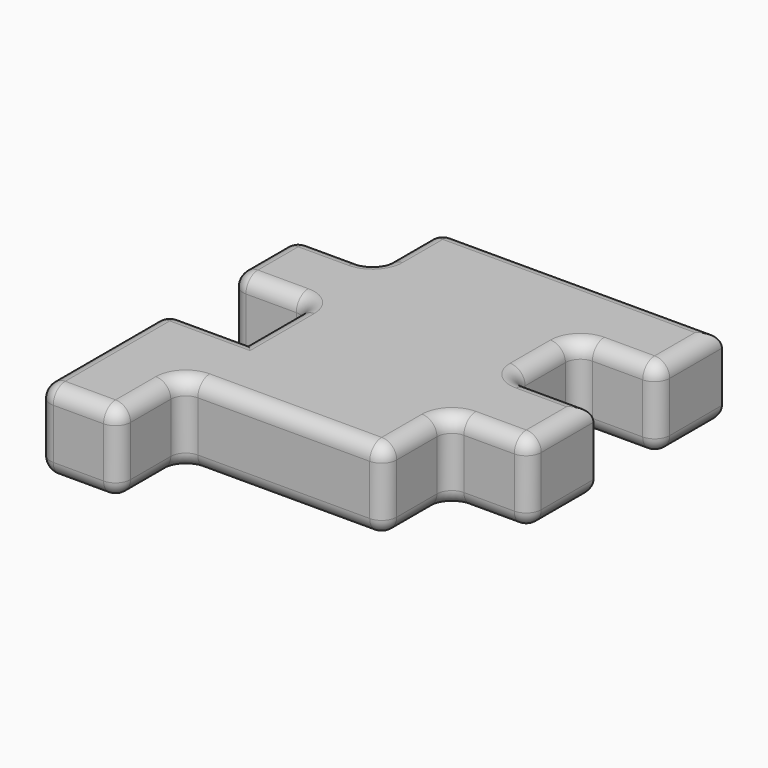
from build123d import *

# Parameters (mm, degrees)
F1_DEPTH = 26.8
F2_R     = 5


with BuildPart() as f1:
    # F0 (on Top) → F1 (new body)
    with BuildSketch(Plane.XY):
        Polygon((56.4772747457, 92.9015133679), (-37.7227252543, 92.9015133679), (-37.7227252543, 66.1015133679), (-64.5227252543, 66.1015133679), (-64.5227252543, 39.3015133679), (-37.7227252543, 39.3015133679), (-37.7227252543, 12.5015133679), (-64.5227252543, 12.5015133679), (-64.5227252543, -41.0984866321), (-37.7227252543, -41.0984866321), (-37.7227252543, -14.2984866321), (29.6772747457, -14.2984866321), (29.6772747457, 12.5015133679), (56.4772747457, 12.5015133679), (56.4772747457, 39.3015133679), (29.6772747457, 39.3015133679), (29.6772747457, 66.1015133679), (56.4772747457, 66.1015133679), align=None)
    extrude(amount=F1_DEPTH)

    # F2
    f2_edges = [f1.edges().sort_by_distance(p)[0] for p in [
        (29.677275, 52.701513, 26.8),
        (43.077275, 66.101513, 26.8),
        (56.477275, 79.501513, 26.8),
        (9.377275, 92.901513, 26.8),
        (-37.722725, 79.501513, 26.8),
        (-51.122725, 66.101513, 26.8),
        (-64.522725, 52.701513, 26.8),
        (-51.122725, 39.301513, 26.8),
        (-37.722725, 25.901513, 26.8),
        (-51.122725, 12.501513, 26.8),
        (-64.522725, -14.298487, 26.8),
        (-51.122725, -41.098487, 26.8),
        (-37.722725, -27.698487, 26.8),
        (-4.022725, -14.298487, 26.8),
        (29.677275, -0.898487, 26.8),
        (43.077275, 12.501513, 26.8),
        (56.477275, 25.901513, 26.8),
        (43.077275, 39.301513, 26.8),
        (-37.722725, -14.298487, 13.4),
        (29.677275, -14.298487, 13.4),
        (-4.022725, -14.298487, 0),
        (-37.722725, -41.098487, 13.4),
        (-37.722725, -27.698487, 0),
        (-64.522725, -41.098487, 13.4),
        (-51.122725, -41.098487, 0),
        (29.677275, 12.501513, 13.4),
        (29.677275, -0.898487, 0),
        (56.477275, 12.501513, 13.4),
        (43.077275, 12.501513, 0),
        (29.677275, 66.101513, 13.4),
        (56.477275, 66.101513, 13.4),
        (43.077275, 66.101513, 0),
        (29.677275, 39.301513, 13.4),
        (29.677275, 52.701513, 0),
        (-64.522725, 12.501513, 13.4),
        (-64.522725, -14.298487, 0),
        (-64.522725, 39.301513, 13.4),
        (-37.722725, 39.301513, 13.4),
        (-51.122725, 39.301513, 0),
        (-64.522725, 66.101513, 13.4),
        (-37.722725, 92.901513, 13.4),
        (-37.722725, 66.101513, 13.4),
        (-37.722725, 79.501513, 0),
        (56.477275, 79.501513, 0),
        (9.377275, 92.901513, 0),
        (-51.122725, 66.101513, 0),
        (-64.522725, 52.701513, 0),
        (-37.722725, 25.901513, 0),
        (-51.122725, 12.501513, 0),
        (56.477275, 25.901513, 0),
        (43.077275, 39.301513, 0),
    ]]
    fillet(f2_edges, radius=F2_R)


solid = f1.part
